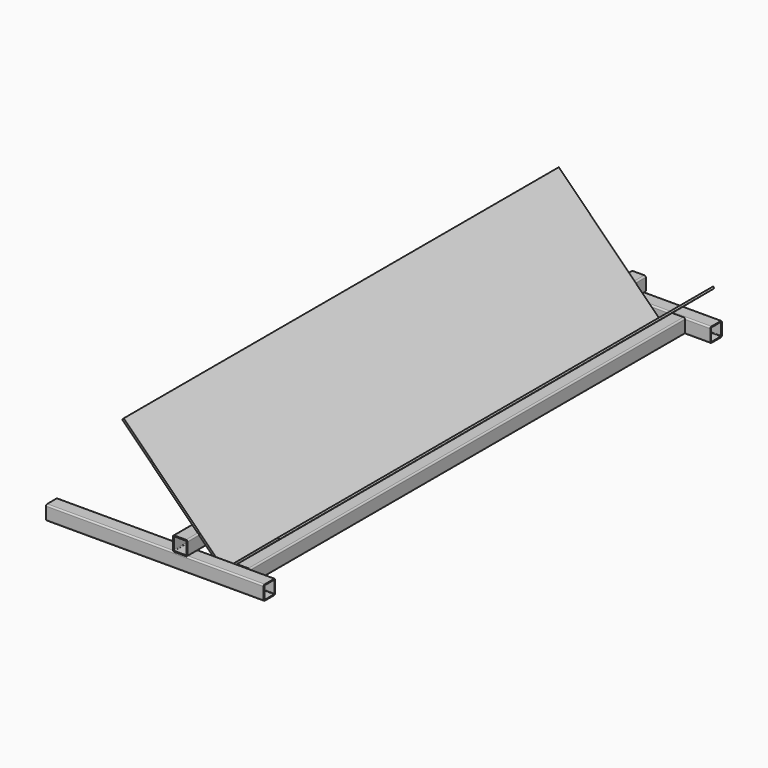
from build123d import *

# Parameters (mm, degrees)
F1_DEPTH  = 300
F2_T      = -2.5
F2_2_T    = -2.5
F4_DEPTH  = 1000
F6_DEPTH  = 1580
F8_DEPTH  = 1500
F13_DEPTH = 6
F14_DEPTH = 5


with BuildPart() as f1:
    # F0 (on Right) → F1 (new body, symmetric)
    with BuildSketch(Plane.YZ):
        with BuildLine():
            Line((-536, 0), (-504, 0))
            ThreePointArc((-504, 0), (-501.1715728753, 1.1715728753), (-500, 4))
            Line((-500, 4), (-500, 36))
            ThreePointArc((-500, 36), (-501.1715728753, 38.8284271247), (-504, 40))
            Line((-504, 40), (-536, 40))
            ThreePointArc((-536, 40), (-538.8284271247, 38.8284271247), (-540, 36))
            Line((-540, 36), (-540, 4))
            ThreePointArc((-540, 4), (-538.8284271247, 1.1715728753), (-536, 0))
        make_face()
    extrude(amount=F1_DEPTH, both=True)

    # F2
    f2_openings = [f1.faces().sort_by_distance(p)[0] for p in [
        (300, -520, 20),
    ]]
    offset(amount=F2_T, openings=f2_openings)


with BuildPart() as f1b:
    # F0 (on Right) → F1, piece 2 (new body, symmetric)
    with BuildSketch(Plane.YZ):
        with BuildLine():
            Line((1036, 40), (1004, 40))
            ThreePointArc((1004, 40), (1001.1715728753, 38.8284271247), (1000, 36))
            Line((1000, 36), (1000, 4))
            ThreePointArc((1000, 4), (1001.1715728753, 1.1715728753), (1004, 0))
            Line((1004, 0), (1036, 0))
            ThreePointArc((1036, 0), (1038.8284271247, 1.1715728753), (1040, 4))
            Line((1040, 4), (1040, 36))
            ThreePointArc((1040, 36), (1038.8284271247, 38.8284271247), (1036, 40))
        make_face()
    extrude(amount=F1_DEPTH, both=True)

    # F2#2
    f2_2_openings = [f1b.faces().sort_by_distance(p)[0] for p in [
        (300, 1020, 20),
    ]]
    offset(amount=F2_2_T, openings=f2_2_openings)


with BuildPart() as f4_tool:
    # F3 (on face) → F4 (new body)
    with BuildSketch(Plane.YZ.offset(300)):
        with BuildLine():
            Line((1002.5, 36), (1002.5, 4))
            ThreePointArc((1002.5, 4), (1002.9393398282, 2.9393398282), (1004, 2.5))
            Line((1004, 2.5), (1036, 2.5))
            ThreePointArc((1036, 2.5), (1037.0606601718, 2.9393398282), (1037.5, 4))
            Line((1037.5, 4), (1037.5, 36))
            ThreePointArc((1037.5, 36), (1037.0606601718, 37.0606601718), (1036, 37.5))
            Line((1036, 37.5), (1004, 37.5))
            ThreePointArc((1004, 37.5), (1002.9393398282, 37.0606601718), (1002.5, 36))
        make_face()
        with BuildLine():
            Line((-502.5, 4), (-502.5, 36))
            ThreePointArc((-502.5, 36), (-502.9393398282, 37.0606601718), (-504, 37.5))
            Line((-504, 37.5), (-536, 37.5))
            ThreePointArc((-536, 37.5), (-537.0606601718, 37.0606601718), (-537.5, 36))
            Line((-537.5, 36), (-537.5, 4))
            ThreePointArc((-537.5, 4), (-537.0606601718, 2.9393398282), (-536, 2.5))
            Line((-536, 2.5), (-504, 2.5))
            ThreePointArc((-504, 2.5), (-502.9393398282, 2.9393398282), (-502.5, 4))
        make_face()
    extrude(amount=-F4_DEPTH)


with BuildPart() as f1_1:
    add(f1.part)

    # F4: cut by f4_tool
    add(f4_tool.part, mode=Mode.SUBTRACT)


with BuildPart() as f1b_1:
    add(f1b.part)

    # F4: cut by f4_tool
    add(f4_tool.part, mode=Mode.SUBTRACT)


with BuildPart() as f6:
    # F5 (on face) → F6 (new body, through all)
    with BuildSketch(Plane.XZ.offset(540)):
        with BuildLine():
            Line((54, 40), (86, 40))
            ThreePointArc((86, 40), (88.8284271247, 41.1715728753), (90, 44))
            Line((90, 44), (90, 76))
            ThreePointArc((90, 76), (88.8284271247, 78.8284271247), (86, 80))
            Line((86, 80), (54, 80))
            ThreePointArc((54, 80), (51.1715728753, 78.8284271247), (50, 76))
            Line((50, 76), (50, 44))
            ThreePointArc((50, 44), (51.1715728753, 41.1715728753), (54, 40))
        make_face()
        with BuildLine():
            ThreePointArc((52.5, 75.5), (53.0857864376, 76.9142135624), (54.5, 77.5))
            Line((54.5, 77.5), (85.5, 77.5))
            ThreePointArc((85.5, 77.5), (86.9142135624, 76.9142135624), (87.5, 75.5))
            Line((87.5, 75.5), (87.5, 44.5))
            ThreePointArc((87.5, 44.5), (86.9142135624, 43.0857864376), (85.5, 42.5))
            Line((85.5, 42.5), (54.5, 42.5))
            ThreePointArc((54.5, 42.5), (53.0857864376, 43.0857864376), (52.5, 44.5))
            Line((52.5, 44.5), (52.5, 75.5))
        make_face(mode=Mode.SUBTRACT)
    extrude(amount=-F6_DEPTH)


with BuildPart() as f8:
    # F7 (on face) → F8 (new body, through all)
    with BuildSketch(Plane.XZ.offset(-1000)):
        with BuildLine():
            ThreePointArc((230, 36), (228.8284271247, 38.8284271247), (226, 40))
            Line((226, 40), (194, 40))
            ThreePointArc((194, 40), (191.1715728753, 38.8284271247), (190, 36))
            Line((190, 36), (192.5635083269, 36))
            ThreePointArc((192.5635083269, 36), (193.2752551286, 37.0811388301), (194.5, 37.5))
            Line((194.5, 37.5), (225.5, 37.5))
            ThreePointArc((225.5, 37.5), (226.7247448714, 37.0811388301), (227.4364916731, 36))
            Line((227.4364916731, 36), (230, 36))
        make_face()
        with BuildLine():
            Line((192.5635083269, 36), (190, 36))
            Line((190, 36), (190, 4))
            Line((190, 4), (192.5635083269, 4))
            ThreePointArc((192.5635083269, 4), (192.5159406075, 4.247991415), (192.5, 4.5))
            Line((192.5, 4.5), (192.5, 35.5))
            ThreePointArc((192.5, 35.5), (192.5159406075, 35.752008585), (192.5635083269, 36))
        make_face()
        with BuildLine():
            ThreePointArc((226, 0), (228.8284271247, 1.1715728753), (230, 4))
            Line((230, 4), (227.4364916731, 4))
            ThreePointArc((227.4364916731, 4), (226.7247448714, 2.9188611699), (225.5, 2.5))
            Line((225.5, 2.5), (194.5, 2.5))
            ThreePointArc((194.5, 2.5), (193.2752551286, 2.9188611699), (192.5635083269, 4))
            Line((192.5635083269, 4), (190, 4))
            ThreePointArc((190, 4), (191.1715728753, 1.1715728753), (194, 0))
            Line((194, 0), (226, 0))
        make_face()
        with BuildLine():
            Line((230, 4), (230, 36))
            Line((230, 36), (227.4364916731, 36))
            ThreePointArc((227.4364916731, 36), (227.4840593925, 35.752008585), (227.5, 35.5))
            Line((227.5, 35.5), (227.5, 4.5))
            ThreePointArc((227.5, 4.5), (227.4840593925, 4.247991415), (227.4364916731, 4))
            Line((227.4364916731, 4), (230, 4))
        make_face()
    extrude(amount=F8_DEPTH)


with BuildPart() as f13:
    # F10 (on face) → F13 (new body)
    with BuildSketch(Plane(origin=(83, 0, 83), x_dir=(0.7071067812, 0, -0.7071067812), z_dir=(-0.7071067812, 0, -0.7071067812))):
        Polygon((109.8994949366, -1000), (109.8994949366, 500), (-237.5878784787, 500), (-290.1005050634, 500), (-290.1005050634, -1000), (-237.5878784787, -1000), align=None)
    extrude(amount=-F13_DEPTH)


with BuildPart() as f14:
    # F12 (on face) → F14 (new body)
    with BuildSketch(Plane(origin=(60.7768835674, 0, -72.4310693382), x_dir=(0.7660444431, 0, 0.6427876097), z_dir=(-0.6427876097, 0, 0.7660444431))):
        Polygon((126.5114324917, 1000), (126.5114324917, -500), (326.5114324917, -500), (326.5114324917, 1000), (252.9536868844, 1000), align=None)
    extrude(amount=F14_DEPTH)


solid = Compound([f1_1.part, f1b_1.part, f6.part, f8.part, f13.part, f14.part])
